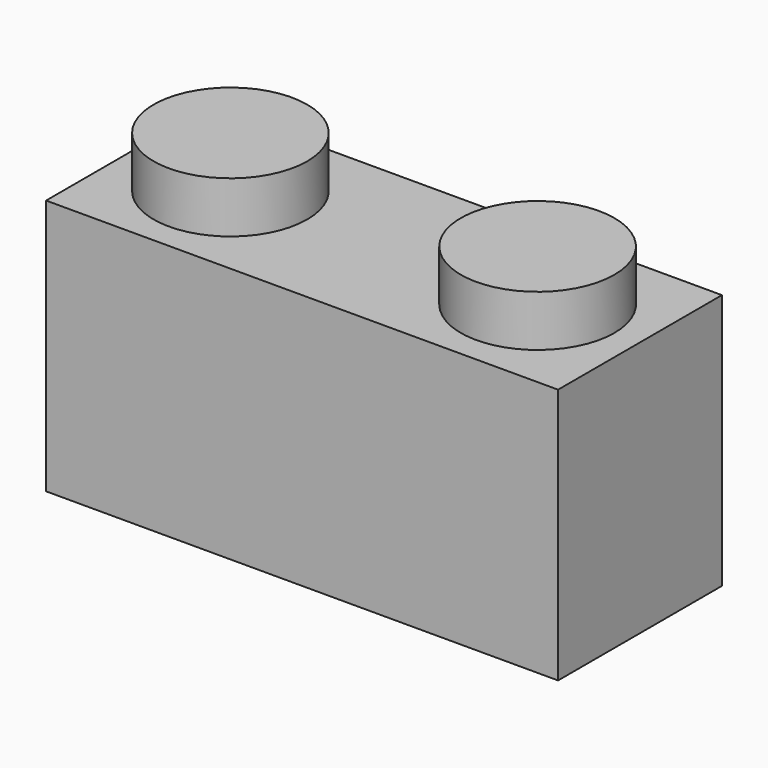
from build123d import *

# Parameters (mm, degrees)
F0_W     = 100
F0_H     = 40
F1_DEPTH = 50
F2_R     = 15
F3_DEPTH = 10
F4_W     = 90
F4_H     = 30
F5_DEPTH = 40


with BuildPart() as f1:
    # F0 (on Top) → F1 (new body)
    with BuildSketch(Plane.XY):
        Rectangle(F0_W, F0_H)
    extrude(amount=F1_DEPTH)

    # F2 (on face) → F3 (join)
    with BuildSketch(Plane.XY.offset(50)):
        with Locations((30, 0)):
            Circle(F2_R)
        with Locations((-30, 0)):
            Circle(F2_R)
    extrude(amount=F3_DEPTH)

    # F4 (on face) → F5 (cut)
    with BuildSketch(Plane(origin=(0, 0, 0), x_dir=(1, 0, 0), z_dir=(0, 0, -1))):
        Rectangle(F4_W, F4_H)
    extrude(amount=-F5_DEPTH, mode=Mode.SUBTRACT)


solid = f1.part
